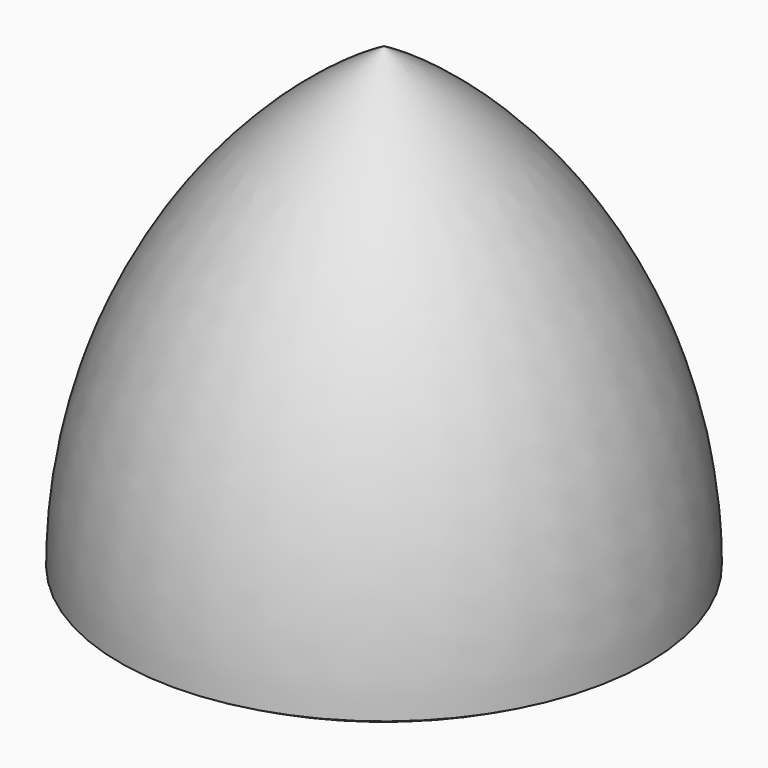
from build123d import *


with BuildPart() as f1:
    # F0 (on Front) → F1 (revolve)
    with BuildSketch(Plane.XZ):
        with BuildLine():
            Line((0, -42.264973), (0, 57.735027))
            ThreePointArc((0, 57.735027), (-36.60254, 21.132487), (-50, -28.867513))
            ThreePointArc((-50, -28.867513), (-25.881905, -38.857556), (0, -42.264973))
        make_face()
    revolve(axis=Axis((0, 0, 7.735027), (0, 0, 1)))


solid = f1.part
